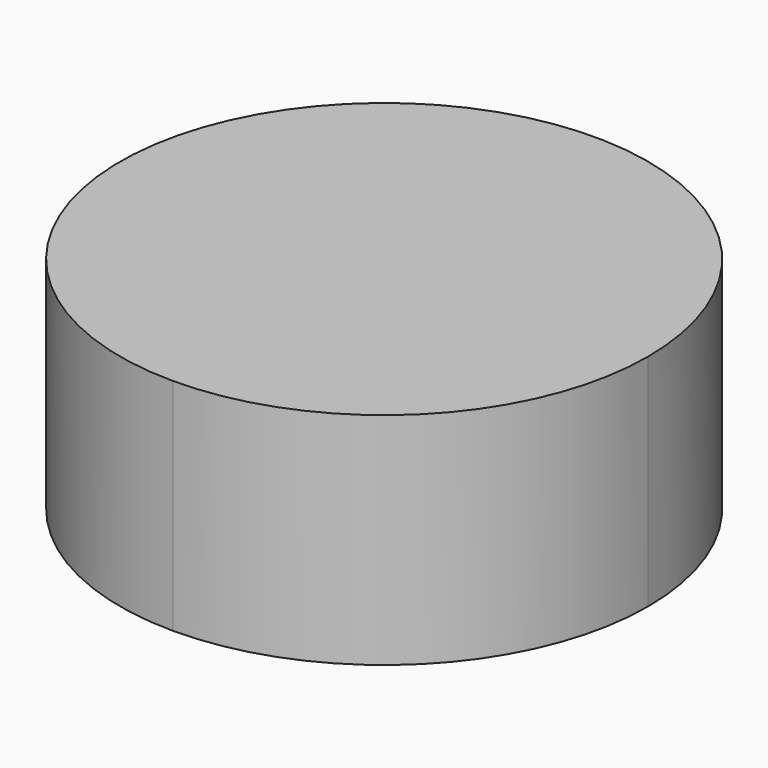
from build123d import *

# Parameters (mm, degrees)
F1_DEPTH = 127


with BuildPart() as f1:
    # F0 (on Top) → F1 (new body)
    with BuildSketch(Plane.XY):
        with BuildLine():
            ThreePointArc((-633.556911, 963.259689), (-525.793837, 1007.896616), (-481.156911, 1115.659689))
            ThreePointArc((-481.156911, 1115.659689), (-741.319984, 1223.422762), (-633.556911, 963.259689))
        make_face()
    extrude(amount=F1_DEPTH)


solid = f1.part
